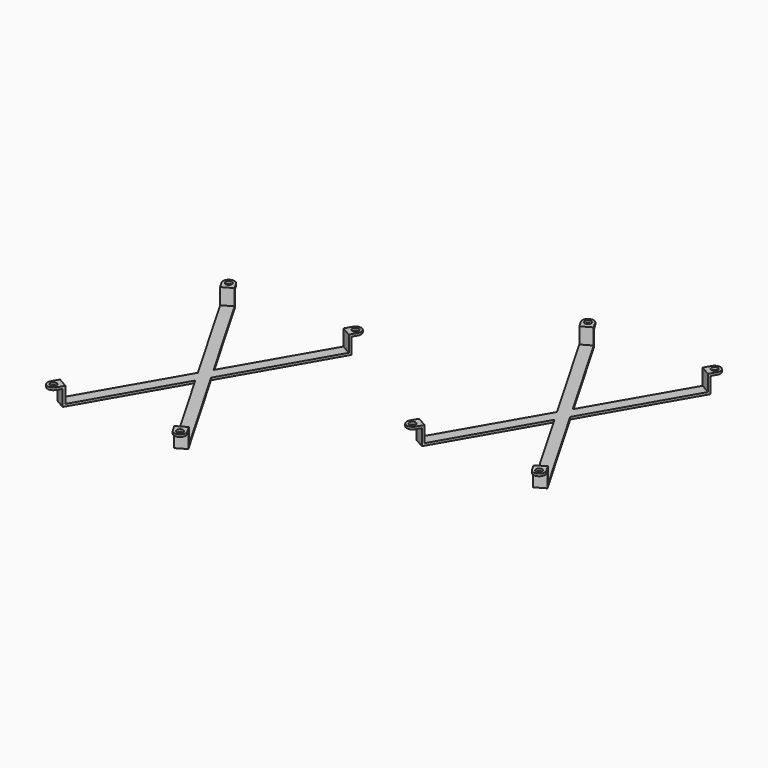
from build123d import *

# Parameters (mm, degrees)
F1_DEPTH = 10.16
F3_DEPTH = 8.89
F4_R     = 1.778
F5_DEPTH = 8.89


with BuildPart() as f1:
    # F0 (on Top) → F1 (new body)
    with BuildSketch(Plane.XY):
        with BuildLine():
            ThreePointArc((37.9449030668, -59.3725), (36.017022878, -57.8931855015), (33.6077724098, -58.210369343))
            ThreePointArc((33.6077724098, -58.210369343), (32.1284579113, -60.1382495318), (32.4456417528, -62.5475))
            ThreePointArc((32.4456417528, -62.5475), (36.017022878, -64.0268144985), (38.3702724098, -60.96))
            ThreePointArc((38.3702724098, -60.96), (38.2620869083, -60.1382495318), (37.9449030668, -59.3725))
        make_face()
        with BuildLine():
            ThreePointArc((34.3062724098, -59.4202068321), (36.0842724098, -59.4202068321), (36.9732724098, -60.96))
            ThreePointArc((36.9732724098, -60.96), (34.3062724098, -62.4997931679), (34.3062724098, -59.4202068321))
        make_face(mode=Mode.SUBTRACT)
        with BuildLine():
            ThreePointArc((32.4456417528, -62.5475), (32.1284579113, -60.1382495318), (33.6077724098, -58.210369343))
            Line((33.6077724098, -58.210369343), (0, 0))
            Line((0, 0), (-33.6077724098, -58.210369343))
            ThreePointArc((-33.6077724098, -58.210369343), (-32.4456417528, -59.3725), (-32.0202724098, -60.96))
            ThreePointArc((-32.0202724098, -60.96), (-32.1284579113, -61.7817504682), (-32.4456417528, -62.5475))
            Line((-32.4456417528, -62.5475), (0, -6.35))
            Line((0, -6.35), (32.4456417528, -62.5475))
        make_face()
        with BuildLine():
            Line((0, 0), (33.6077724098, -58.210369343))
            ThreePointArc((33.6077724098, -58.210369343), (36.017022878, -57.8931855015), (37.9449030668, -59.3725))
            Line((37.9449030668, -59.3725), (3.6661742094, 0))
            Line((3.6661742094, 0), (0, 0))
        make_face()
        with BuildLine():
            Line((-33.6077724098, -58.210369343), (0, 0))
            Line((0, 0), (-33.6077724098, 58.210369343))
            ThreePointArc((-33.6077724098, 58.210369343), (-36.017022878, 57.8931855015), (-37.9449030668, 59.3725))
            Line((-37.9449030668, 59.3725), (-3.6661742094, 0))
            Line((-3.6661742094, 0), (-37.9449030668, -59.3725))
            ThreePointArc((-37.9449030668, -59.3725), (-36.017022878, -57.8931855015), (-33.6077724098, -58.210369343))
        make_face()
        with BuildLine():
            Line((0, 6.35), (0, 0))
            Line((0, 0), (33.6077724098, 58.210369343))
            ThreePointArc((33.6077724098, 58.210369343), (32.1284579113, 60.1382495318), (32.4456417528, 62.5475))
            Line((32.4456417528, 62.5475), (0, 6.35))
        make_face()
        with BuildLine():
            Line((-33.6077724098, 58.210369343), (0, 0))
            Line((0, 0), (0, 6.35))
            Line((0, 6.35), (-32.4456417528, 62.5475))
            ThreePointArc((-32.4456417528, 62.5475), (-32.1284579113, 61.7817504682), (-32.0202724098, 60.96))
            ThreePointArc((-32.0202724098, 60.96), (-32.4456417528, 59.3725), (-33.6077724098, 58.210369343))
        make_face()
        with BuildLine():
            Line((33.6077724098, 58.210369343), (0, 0))
            Line((0, 0), (3.6661742094, 0))
            Line((3.6661742094, 0), (37.9449030668, 59.3725))
            ThreePointArc((37.9449030668, 59.3725), (36.017022878, 57.8931855015), (33.6077724098, 58.210369343))
        make_face()
        with BuildLine():
            ThreePointArc((-37.9449030668, 59.3725), (-36.017022878, 57.8931855015), (-33.6077724098, 58.210369343))
            Line((-33.6077724098, 58.210369343), (-34.3062724098, 59.4202068321))
            ThreePointArc((-34.3062724098, 59.4202068321), (-35.655452672, 59.2425838809), (-36.7350655777, 60.071))
            Line((-36.7350655777, 60.071), (-37.9449030668, 59.3725))
        make_face()
        with BuildLine():
            Line((-34.3062724098, 59.4202068321), (-33.6077724098, 58.210369343))
            ThreePointArc((-33.6077724098, 58.210369343), (-32.4456417528, 59.3725), (-32.0202724098, 60.96))
            ThreePointArc((-32.0202724098, 60.96), (-32.1284579113, 61.7817504682), (-32.4456417528, 62.5475))
            Line((-32.4456417528, 62.5475), (-33.6554792419, 61.849))
            ThreePointArc((-33.6554792419, 61.849), (-33.4778562907, 61.4201802622), (-33.4172724098, 60.96))
            ThreePointArc((-33.4172724098, 60.96), (-33.6554792419, 60.071), (-34.3062724098, 59.4202068321))
        make_face()
        with BuildLine():
            ThreePointArc((32.4456417528, 62.5475), (32.1284579113, 60.1382495318), (33.6077724098, 58.210369343))
            ThreePointArc((33.6077724098, 58.210369343), (36.017022878, 57.8931855015), (37.9449030668, 59.3725))
            ThreePointArc((37.9449030668, 59.3725), (38.2620869083, 60.1382495318), (38.3702724098, 60.96))
            ThreePointArc((38.3702724098, 60.96), (36.017022878, 64.0268144985), (32.4456417528, 62.5475))
        make_face()
        with BuildLine():
            ThreePointArc((36.9732724098, 60.96), (36.0842724098, 59.4202068321), (34.3062724098, 59.4202068321))
            ThreePointArc((34.3062724098, 59.4202068321), (34.3062724098, 62.4997931679), (36.9732724098, 60.96))
        make_face(mode=Mode.SUBTRACT)
        with BuildLine():
            ThreePointArc((-32.0202724098, -60.96), (-32.4456417528, -59.3725), (-33.6077724098, -58.210369343))
            ThreePointArc((-33.6077724098, -58.210369343), (-36.017022878, -57.8931855015), (-37.9449030668, -59.3725))
            ThreePointArc((-37.9449030668, -59.3725), (-36.7827724098, -63.709630657), (-32.4456417528, -62.5475))
            ThreePointArc((-32.4456417528, -62.5475), (-32.1284579113, -61.7817504682), (-32.0202724098, -60.96))
        make_face()
        with BuildLine():
            ThreePointArc((-33.4172724098, -60.96), (-36.7350655777, -61.849), (-34.3062724098, -59.4202068321))
            ThreePointArc((-34.3062724098, -59.4202068321), (-33.6554792419, -60.071), (-33.4172724098, -60.96))
        make_face(mode=Mode.SUBTRACT)
        with BuildLine():
            ThreePointArc((-32.4456417528, 62.5475), (-36.7827724098, 63.709630657), (-37.9449030668, 59.3725))
            Line((-37.9449030668, 59.3725), (-36.7350655777, 60.071))
            ThreePointArc((-36.7350655777, 60.071), (-36.0842724098, 62.4997931679), (-33.6554792419, 61.849))
            Line((-33.6554792419, 61.849), (-32.4456417528, 62.5475))
        make_face()
    extrude(amount=F1_DEPTH)

    # F2 (on face) → F3 (cut)
    with BuildSketch(Plane.XY.offset(10.16)):
        Polygon((-33.02, 57.1923176659), (-35.769630657, 55.6048176659), (-3.6661742094, 0), (-35.769630657, -55.6048176659), (-30.270369343, -58.7798176659), (0, -6.35), (30.270369343, -58.7798176659), (35.769630657, -55.6048176659), (3.6661742094, 0), (35.769630657, 55.6048176659), (30.270369343, 58.7798176659), (0, 6.35), (-30.270369343, 58.7798176659), align=None)
    extrude(amount=-F3_DEPTH, mode=Mode.SUBTRACT)

    # F4 (on face) → F5 (cut)
    with BuildSketch(Plane(origin=(0, 0, 0), x_dir=(1, 0, 0), z_dir=(0, 0, -1))):
        with BuildLine():
            Line((-37.9449030668, 59.3725), (-36.404630657, 56.7046699287))
            Line((-36.404630657, 56.7046699287), (-33.655, 58.2921699287))
            Line((-33.655, 58.2921699287), (-30.905369343, 59.8796699287))
            Line((-30.905369343, 59.8796699287), (-32.4456417528, 62.5475))
            ThreePointArc((-32.4456417528, 62.5475), (-36.7827724098, 63.709630657), (-37.9449030668, 59.3725))
        make_face()
        with Locations((-35.1952724098, 60.96)):
            Circle(F4_R, mode=Mode.SUBTRACT)
        with BuildLine():
            Line((32.4456417528, 62.5475), (30.905369343, 59.8796699287))
            Line((30.905369343, 59.8796699287), (36.404630657, 56.7046699287))
            Line((36.404630657, 56.7046699287), (37.9449030668, 59.3725))
            ThreePointArc((37.9449030668, 59.3725), (36.7827724098, 63.709630657), (32.4456417528, 62.5475))
        make_face()
        with Locations((35.1952724098, 60.96)):
            Circle(F4_R, mode=Mode.SUBTRACT)
        with BuildLine():
            Line((36.404630657, -56.7046699287), (30.905369343, -59.8796699287))
            Line((30.905369343, -59.8796699287), (32.4456417528, -62.5475))
            ThreePointArc((32.4456417528, -62.5475), (36.7827724098, -63.709630657), (37.9449030668, -59.3725))
            Line((37.9449030668, -59.3725), (36.404630657, -56.7046699287))
        make_face()
        with Locations((35.1952724098, -60.96)):
            Circle(F4_R, mode=Mode.SUBTRACT)
        with BuildLine():
            Line((-30.905369343, -59.8796699287), (-36.404630657, -56.7046699287))
            Line((-36.404630657, -56.7046699287), (-37.9449030668, -59.3725))
            ThreePointArc((-37.9449030668, -59.3725), (-36.7827724098, -63.709630657), (-32.4456417528, -62.5475))
            Line((-32.4456417528, -62.5475), (-30.905369343, -59.8796699287))
        make_face()
        with Locations((-35.1952724098, -60.96)):
            Circle(F4_R, mode=Mode.SUBTRACT)
    extrude(amount=-F5_DEPTH, mode=Mode.SUBTRACT)


with BuildPart() as f6_1:
    # F6: copy of F1
    add(f1.part.moved(Location((144.78, 68.58, 0))))


solid = Compound([f1.part, f6_1.part])
